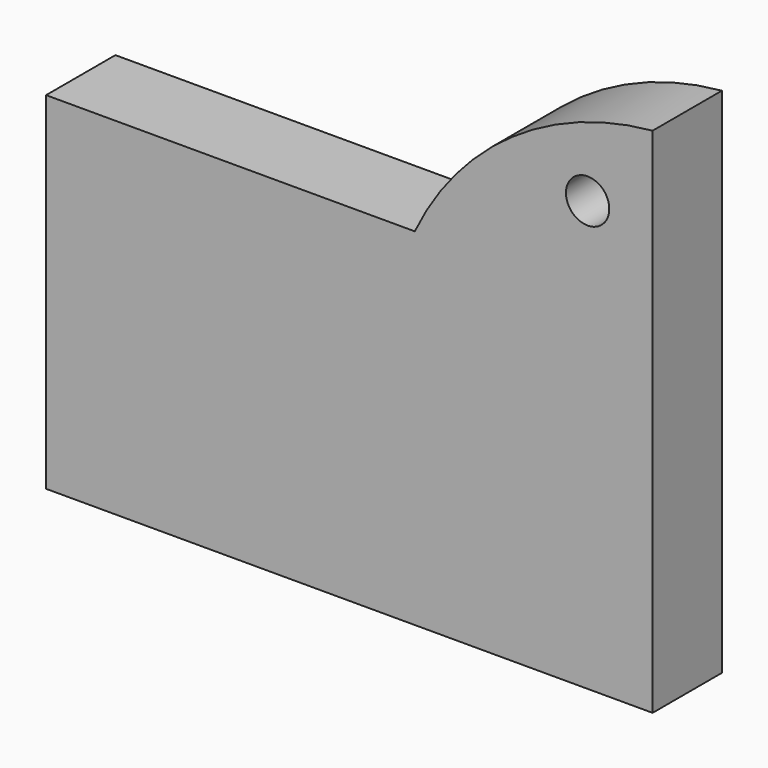
from build123d import *

# Parameters (mm, degrees)
F1_DEPTH = 12.7
F3_D     = 6.35


with BuildPart() as f1:
    # F0 (on Front) → F1 (new body)
    with BuildSketch(Plane.XZ):
        Polygon((-44.45, 25.4), (-44.45, -25.4), (44.45, -25.4), (44.45, 25.4), (9.5911053941, 25.4), align=None)
        with BuildLine():
            Line((9.5911053941, 25.4), (44.45, 25.4))
            Line((44.45, 25.4), (44.45, 49.722302705))
            ThreePointArc((44.45, 49.722302705), (23.794397435, 42.1848996722), (9.5911053941, 25.4))
        make_face()
    extrude(amount=F1_DEPTH)

    # F3 (through all)
    with Locations(Plane(origin=(0, 0, 0), x_dir=(1, 0, 0), z_dir=(0, 1, 0))):
        with Locations((34.925, -37.5611312118)):
            Hole(F3_D / 2)


solid = f1.part
